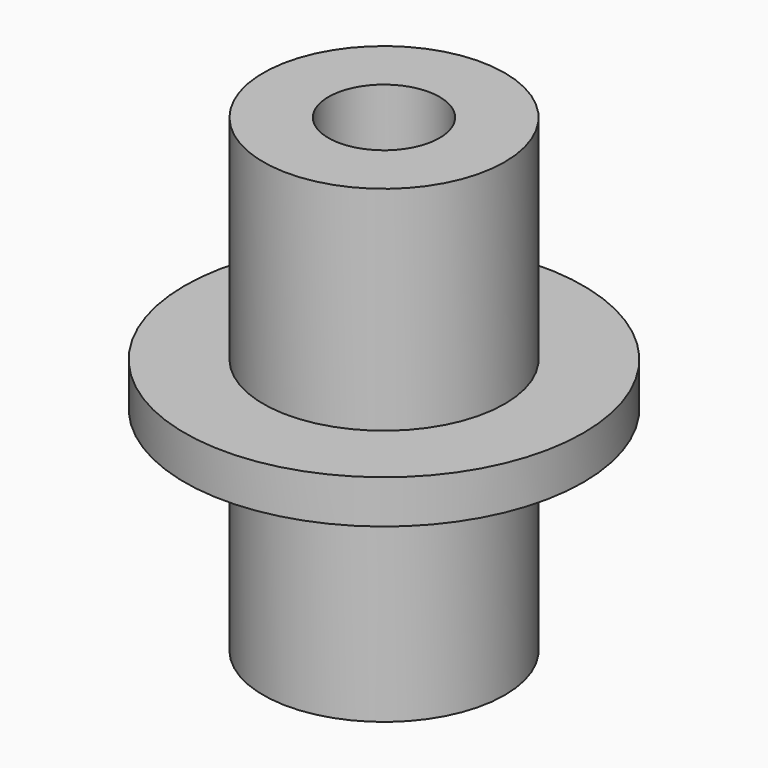
from build123d import *

# Parameters (mm, degrees)
F0_R     = 3.7338
F1_DEPTH = 0.8128
F2_R     = 2.2606
F3_DEPTH = 3.9878
F4_R     = 2.2606
F5_DEPTH = 3.9878
F6_R     = 1.0414
F7_DEPTH = 25.4


with BuildPart() as f1:
    # F0 (on Top) → F1 (new body)
    with BuildSketch(Plane.XY):
        Circle(F0_R)
    extrude(amount=F1_DEPTH)

    # F2 (on face) → F3 (join)
    with BuildSketch(Plane.XY.offset(0.8128)):
        Circle(F2_R)
    extrude(amount=F3_DEPTH)

    # F4 (on face) → F5 (join)
    with BuildSketch(Plane(origin=(0, 0, 0), x_dir=(1, 0, 0), z_dir=(0, 0, -1))):
        Circle(F4_R)
    extrude(amount=F5_DEPTH)

    # F6 (on face) → F7 (cut)
    with BuildSketch(Plane(origin=(0, 0, -3.9878), x_dir=(1, 0, 0), z_dir=(0, 0, -1))):
        Circle(F6_R)
    extrude(amount=-F7_DEPTH, mode=Mode.SUBTRACT)


solid = f1.part
